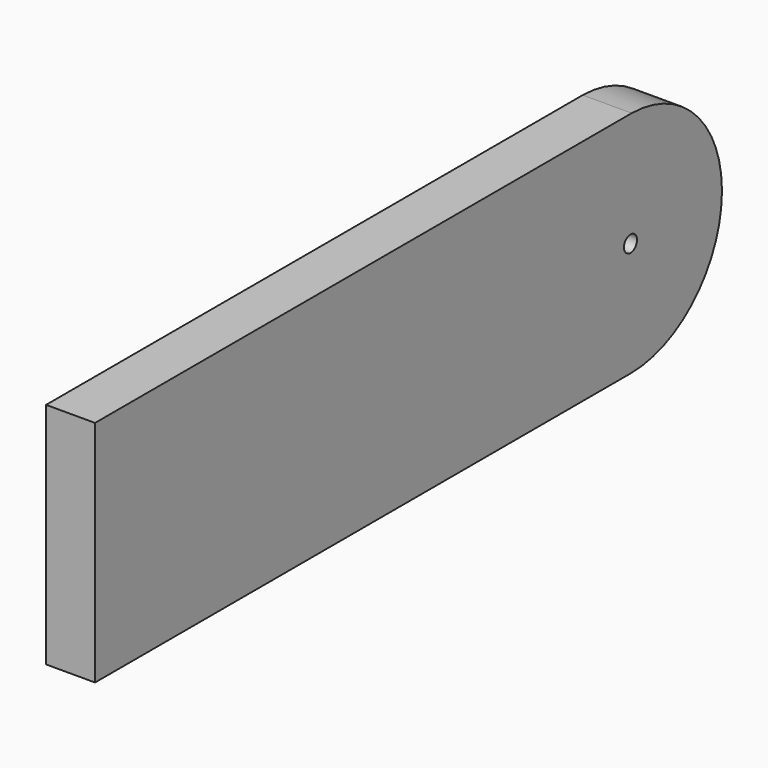
from build123d import *

# Parameters (mm, degrees)
F0_W     = 19.05
F0_H     = 88.9
F1_DEPTH = 304.8
F3_D     = 6.35
F5_DEPTH = 19.051


with BuildPart() as f1:
    # F0 (on Front) → F1 (new body)
    with BuildSketch(Plane.XZ):
        Rectangle(F0_W, F0_H)
    extrude(amount=F1_DEPTH)

    # F3 (through all)
    with Locations(Plane.YZ.offset(9.525)):
        with Locations((-44.45, 0)):
            Hole(F3_D / 2)

    # F4 (on face) → F5 (cut, through all)
    with BuildSketch(Plane.YZ.offset(9.525)):
        with BuildLine():
            Line((0, -44.45), (0, -0.568558))
            ThreePointArc((0, -0.568558), (-13.016533, -31.433467), (-43.881442, -44.45))
            Line((-43.881442, -44.45), (0, -44.45))
        make_face()
        with BuildLine():
            Line((0, 44.45), (-43.881442, 44.45))
            ThreePointArc((-43.881442, 44.45), (-13.016533, 31.433467), (0, 0.568558))
            Line((0, 0.568558), (0, 44.45))
        make_face()
    extrude(amount=-F5_DEPTH, mode=Mode.SUBTRACT)


solid = f1.part
